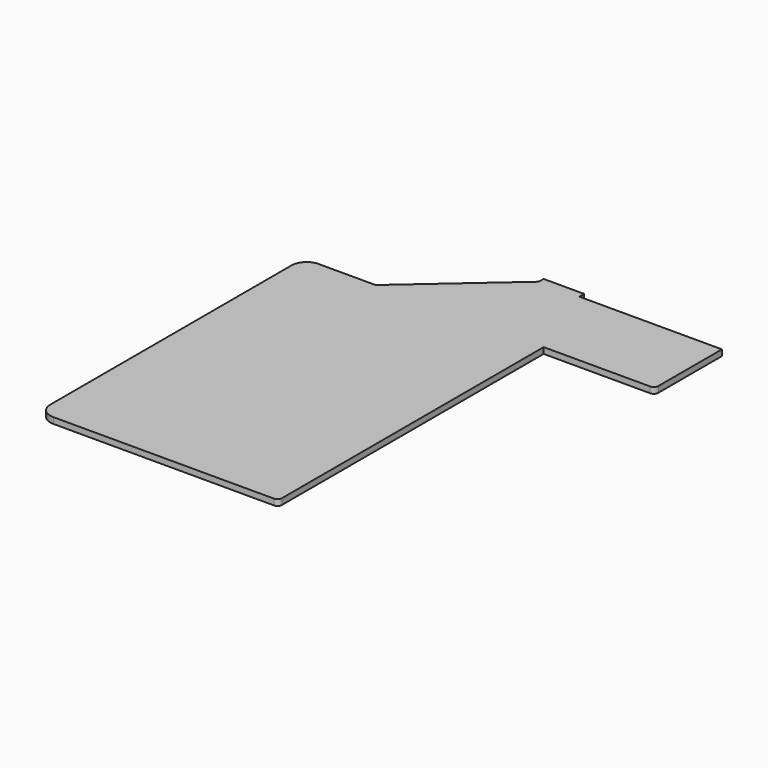
from build123d import *

# Parameters (mm, degrees)
F1_DEPTH = 25.4


with BuildPart() as f1:
    # F0 (on Top) → F1 (new body)
    with BuildSketch(Plane.XY):
        with BuildLine():
            ThreePointArc((63.5, 1403.35), (18.598719, 1384.751281), (0, 1339.85))
            Line((0, 1339.85), (0, 63.5))
            ThreePointArc((0, 63.5), (18.598719, 18.598719), (63.5, 0))
            Line((63.5, 0), (996.95, 0))
            ThreePointArc((996.95, 0), (1010.420384, 5.579616), (1016, 19.05))
            Line((1016, 19.05), (1016, 1403.35))
            Line((1016, 1403.35), (1466.85, 1403.35))
            ThreePointArc((1466.85, 1403.35), (1480.320384, 1408.929616), (1485.9, 1422.4))
            Line((1485.9, 1422.4), (1485.9, 1758.95))
            Line((1485.9, 1758.95), (882.65, 1758.95))
            Line((882.65, 1758.95), (882.65, 1784.35))
            Line((882.65, 1784.35), (711.2, 1784.35))
            Line((711.2, 1784.35), (711.2, 1758.95))
            Line((711.2, 1758.95), (304.8, 1403.35))
            Line((304.8, 1403.35), (63.5, 1403.35))
        make_face()
    extrude(amount=F1_DEPTH)


solid = f1.part
